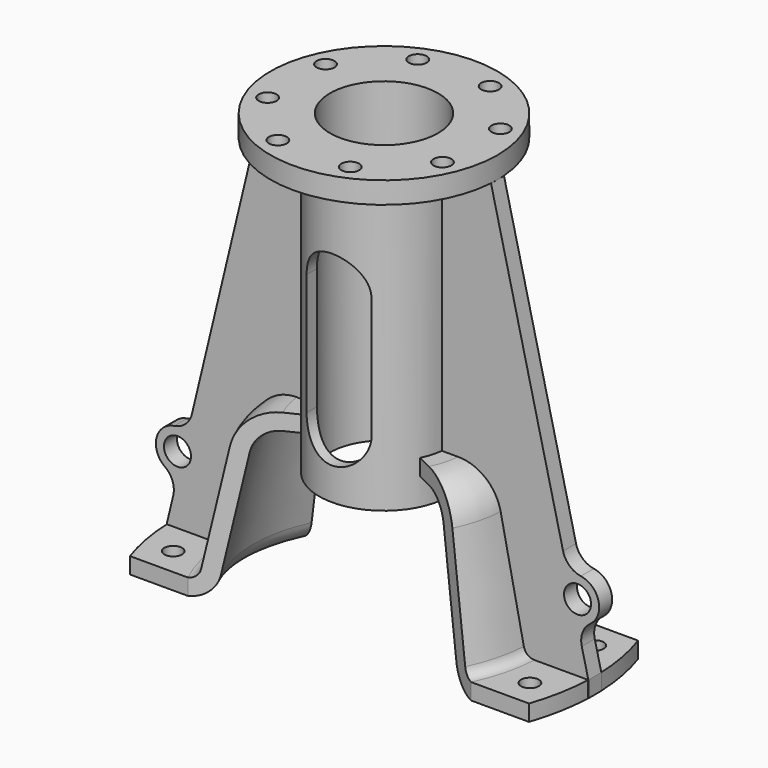
from build123d import *

# Parameters (mm, degrees)
F0_W          = 4
F0_H          = 6
F0_H_2        = 10
F0_W_2        = 18
F0_H_3        = 8
F0_W_3        = 19.8675894201
F2_ANGLE_BACK = 25.7
F2_ANGLE      = 51.4
F0_R          = 5
F4_DEPTH      = 3
F5_DEPTH      = 25
F6_D          = 6.6
F8_DEPTH      = 24
F10_D         = 6.6
F10_DEPTH     = 11.25
F10_TIP       = 1.9828400428


with BuildPart() as f1:
    # F0 (on Front) → F1 (revolve)
    with BuildSketch(Plane.XZ):
        Polygon((20, -30.5), (24, -30.5), (24, 62.5), (24, 70.5), (20, 70.5), align=None)
        with Locations((22, -33.5)):
            Rectangle(F0_W, F0_H)
        with Locations((22, -41.5)):
            Rectangle(F0_W, F0_H_2)
        with Locations((33, 66.5)):
            Rectangle(F0_W_2, F0_H_3)
    revolve(axis=Axis((0, 0, 12), (0, 0, -1)))

    # F0 (on Front) → F2 (revolve)
    with BuildSketch(Plane.XZ, mode=Mode.PRIVATE) as f2_sk:
        with BuildLine():
            ThreePointArc((48.3423523206, -85.5383226635), (51.8230218074, -91.2583254197), (58.1324105799, -93.5))
            Line((58.1324105799, -93.5), (58.1324105799, -87.5))
            ThreePointArc((58.1324105799, -87.5), (55.6086550709, -86.6033301679), (54.2163872762, -84.3153290654))
            Line((54.2163872762, -84.3153290654), (45.6640932148, -43.2386837384))
            ThreePointArc((45.6640932148, -43.2386837384), (40.095022036, -34.0866793285), (30, -30.5))
            Line((30, -30.5), (24, -30.5))
            Line((24, -30.5), (24, -36.5))
            Line((24, -36.5), (30, -36.5))
            ThreePointArc((30, -36.5), (36.3093887725, -38.7416745803), (39.7900582592, -44.4616773365))
            Line((39.7900582592, -44.4616773365), (48.3423523206, -85.5383226635))
        make_face()
        with Locations((68.0662052899, -90.5)):
            Rectangle(F0_W_3, F0_H)
    revolve(f2_sk.sketch.rotate(Axis((0, 0, -65), (0, 0, 1)), -F2_ANGLE_BACK), axis=Axis((0, 0, -65), (0, 0, 1)), revolution_arc=F2_ANGLE)

    # F0 (on Front) → F4 (join, symmetric)
    with BuildSketch(Plane.XZ):
        with BuildLine():
            ThreePointArc((54.2163872762, -84.3153290654), (55.6086550709, -86.6033301679), (58.1324105799, -87.5))
            Line((58.1324105799, -87.5), (78, -87.5))
            Line((78, -87.5), (75.5651646838, -77.3548528493))
            ThreePointArc((75.5651646838, -77.3548528493), (75.8452951476, -72.7012082071), (78.6721315498, -68.9939346148))
            ThreePointArc((78.6721315498, -68.9939346148), (81.7790984158, -60.6330163802), (75.2158927359, -54.5929395566))
            ThreePointArc((75.2158927359, -54.5929395566), (71.0143969438, -52.572465691), (68.6526870559, -48.5528627331))
            Line((68.6526870559, -48.5528627331), (42, 62.5))
            Line((42, 62.5), (24, 62.5))
            Line((24, 62.5), (24, -30.5))
            Line((24, -30.5), (30, -30.5))
            ThreePointArc((30, -30.5), (40.095022036, -34.0866793285), (45.6640932148, -43.2386837384))
            Line((45.6640932148, -43.2386837384), (54.2163872762, -84.3153290654))
        make_face()
        with Locations((74, -62.5)):
            Circle(F0_R, mode=Mode.SUBTRACT)
        with BuildLine():
            ThreePointArc((48.3423523206, -85.5383226635), (51.8230218074, -91.2583254197), (58.1324105799, -93.5))
            Line((58.1324105799, -93.5), (58.1324105799, -87.5))
            ThreePointArc((58.1324105799, -87.5), (55.6086550709, -86.6033301679), (54.2163872762, -84.3153290654))
            Line((54.2163872762, -84.3153290654), (45.6640932148, -43.2386837384))
            ThreePointArc((45.6640932148, -43.2386837384), (40.095022036, -34.0866793285), (30, -30.5))
            Line((30, -30.5), (24, -30.5))
            Line((24, -30.5), (24, -36.5))
            Line((24, -36.5), (30, -36.5))
            ThreePointArc((30, -36.5), (36.3093887725, -38.7416745803), (39.7900582592, -44.4616773365))
            Line((39.7900582592, -44.4616773365), (48.3423523206, -85.5383226635))
        make_face()
        with Locations((68.0662052899, -90.5)):
            Rectangle(F0_W_3, F0_H)
        Polygon((20, -30.5), (24, -30.5), (24, 62.5), (24, 70.5), (20, 70.5), align=None)
    extrude(amount=F4_DEPTH, both=True)

    # F3 (on face) → F5 (cut)
    with BuildSketch(Plane(origin=(0, 0, -93.5), x_dir=(1, 0, 0), z_dir=(0, 0, -1))):
        with BuildLine():
            Line((70.2840076631, 33.8254085978), (52.3817793676, 25.2096479569))
            Line((52.3817793676, 25.2096479569), (73.8137768299, 25.2096479569))
            ThreePointArc((73.8137768299, 25.2096479569), (72.1775637356, 29.570243374), (70.2840076631, 33.8254085978))
        make_face()
        with BuildLine():
            ThreePointArc((70.2840076631, -33.8254085978), (72.1775637356, -29.570243374), (73.8137768299, -25.2096479569))
            Line((73.8137768299, -25.2096479569), (52.3817793676, -25.2096479569))
            Line((52.3817793676, -25.2096479569), (70.2840076631, -33.8254085978))
        make_face()
    extrude(amount=-F5_DEPTH, mode=Mode.SUBTRACT)

    # F6 (through all)
    with Locations(Plane(origin=(0, 0, -93.5), x_dir=(1, 0, 0), z_dir=(0, 0, -1))):
        with Locations((65.9730937049, 15), (65.9730937049, -15)):
            Hole(F6_D / 2)

    # F7: F1 across plane


with BuildPart() as f1_1:
    add(f1.part)
    add(f1.part.mirror(Plane.YZ))

    # F0 (on Front) → F8 (cut, symmetric)
    with BuildSketch(Plane.XZ):
        with BuildLine():
            Line((0, -34.5), (0, 34.5))
            ThreePointArc((0, 34.5), (-8.4852813742, 30.9852813742), (-12, 22.5))
            Line((-12, 22.5), (-12, -22.5))
            ThreePointArc((-12, -22.5), (-8.4852813742, -30.9852813742), (0, -34.5))
        make_face()
        with BuildLine():
            Line((12, -22.5), (12, 22.5))
            ThreePointArc((12, 22.5), (8.4852813742, 30.9852813742), (0, 34.5))
            Line((0, 34.5), (0, -34.5))
            ThreePointArc((0, -34.5), (8.4852813742, -30.9852813742), (12, -22.5))
        make_face()
    extrude(amount=F8_DEPTH, both=True, mode=Mode.SUBTRACT)

    # F10
    with Locations(Plane.XY.offset(70.5)):
        with Locations((-13.3939201328, 32.3357836379), (13.3939201328, 32.3357836379), (32.3357836379, 13.3939201328), (32.3357836379, -13.3939201328), (13.3939201328, -32.3357836379), (-13.3939201328, -32.3357836379), (-32.3357836379, -13.3939201328), (-32.3357836379, 13.3939201328)):
            Hole(F10_D / 2, depth=F10_DEPTH)
            with Locations((0, 0, -(F10_DEPTH + F10_TIP / 2))):  # 118° drill point
                Cone(0, F10_D / 2, F10_TIP, mode=Mode.SUBTRACT)


solid = f1_1.part
